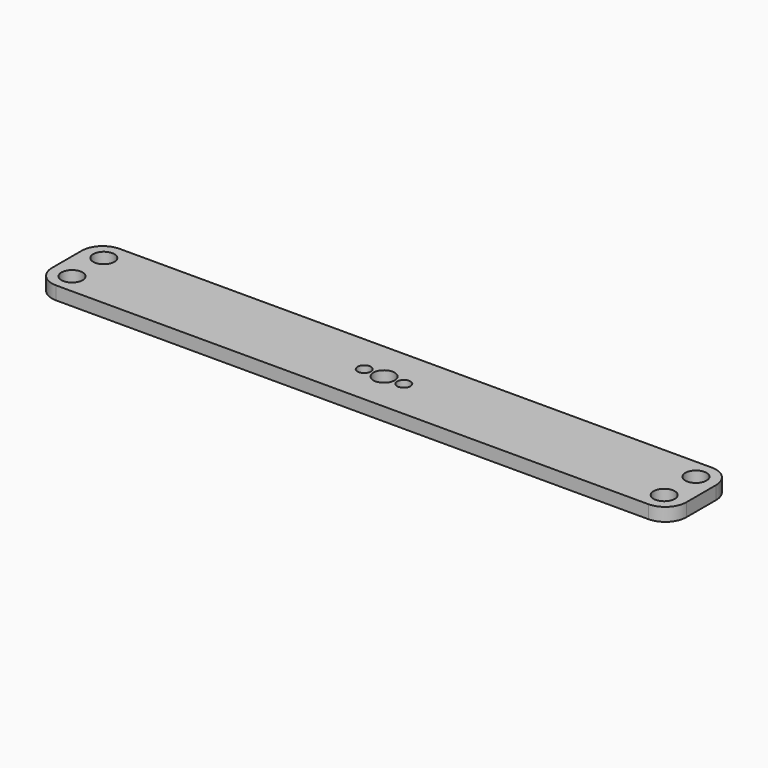
from build123d import *

# Parameters (mm, degrees)
F0_W     = 152.4
F0_H     = 19.05
F1_DEPTH = 3.175
F2_R     = 2.54
F3_DEPTH = 3.176
F4_R     = 5.08
F5_R     = 2.54
F5_R_2   = 1.5875
F6_DEPTH = 3.176


with BuildPart() as f1:
    # F0 (on Top) → F1 (new body)
    with BuildSketch(Plane.XY):
        Rectangle(F0_W, F0_H)
    extrude(amount=F1_DEPTH)

    # F2 (on face) → F3 (cut, through all)
    with BuildSketch(Plane.XY.offset(3.175)):
        with Locations((-71.12, 4.7625)):
            Circle(F2_R)
        with Locations((-71.12, -4.7625)):
            Circle(F2_R)
        with Locations((71.12, 4.7625)):
            Circle(F2_R)
        with Locations((71.12, -4.7625)):
            Circle(F2_R)
    extrude(amount=-F3_DEPTH, mode=Mode.SUBTRACT)

    # F4
    f4_edges = [f1.edges().sort_by_distance(p)[0] for p in [
        (-76.2, 9.525, 1.5875),
        (-76.2, -9.525, 1.5875),
        (76.2, 9.525, 1.5875),
        (76.2, -9.525, 1.5875),
    ]]
    fillet(f4_edges, radius=F4_R)

    # F5 (on face) → F6 (cut, through all)
    with BuildSketch(Plane.XY.offset(3.175)):
        Circle(F5_R)
        with Locations((-4.7625, 0)):
            Circle(F5_R_2)
        with Locations((4.7625, 0)):
            Circle(F5_R_2)
    extrude(amount=-F6_DEPTH, mode=Mode.SUBTRACT)


solid = f1.part
